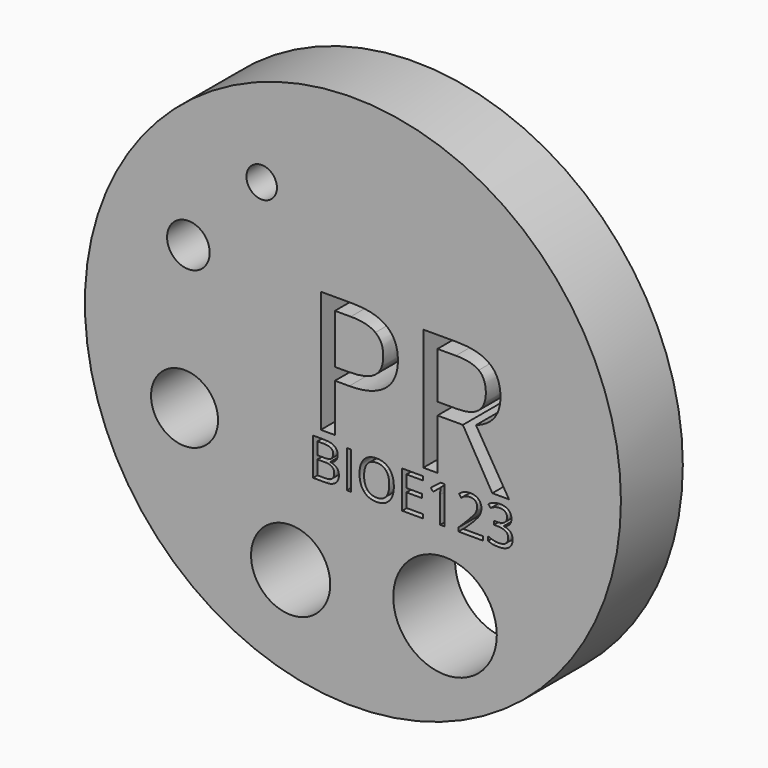
from build123d import *

# Parameters (mm, degrees)
F1_DEPTH = 6.35
F0_R     = 22
F0_R_2   = 3.25
F0_R_3   = 2.75
F0_W     = 0.3557667205
F0_H     = 3.0612017817
F0_R_4   = 4.25
F0_R_5   = 1.75
F0_R_6   = 1.25


with BuildPart() as f1:
    # F0 (on Front) → F1 (new body)
    with BuildSketch(Plane.XZ):
        with BuildLine():
            add(Edge.make_bspline(
                [(1.1828692104, -4.0897023027), (0.917886653, -4.4112993382), (0.917886653, -5.0243436872)],
                knots=[0, 0, 0, 1, 1, 1], degree=2))
            add(Edge.make_bspline(
                [(0.917886653, -5.0243436872), (0.917886653, -5.6460979558), (1.1828692104, -5.9676949913)],
                knots=[0, 0, 0, 1, 1, 1], degree=2))
            add(Edge.make_bspline(
                [(1.1828692104, -5.9676949913), (1.4478517678, -6.2892920268), (1.9523571173, -6.2892920268)],
                knots=[0, 0, 0, 1, 1, 1], degree=2))
            add(Edge.make_bspline(
                [(1.9523571173, -6.2892920268), (2.4608824297, -6.2892920268), (2.7205050365, -5.969034979)],
                knots=[0, 0, 0, 1, 1, 1], degree=2))
            add(Edge.make_bspline(
                [(2.7205050365, -5.969034979), (2.9801276432, -5.6487779311), (2.9801276432, -5.0243436872)],
                knots=[0, 0, 0, 1, 1, 1], degree=2))
            add(Edge.make_bspline(
                [(2.9801276432, -5.0243436872), (2.9801276432, -4.4066093815), (2.7215100272, -4.0873573244)],
                knots=[0, 0, 0, 1, 1, 1], degree=2))
            add(Edge.make_bspline(
                [(2.7215100272, -4.0873573244), (2.4628924111, -3.7681052672), (1.9563770802, -3.7681052672)],
                knots=[0, 0, 0, 1, 1, 1], degree=2))
            add(Edge.make_bspline(
                [(1.9563770802, -3.7681052672), (1.4478517678, -3.7681052672), (1.1828692104, -4.0897023027)],
                knots=[0, 0, 0, 1, 1, 1], degree=2))
        make_face()
    extrude(amount=F1_DEPTH)


with BuildPart() as f1b:
    # F0 (on Front) → F1, piece 2 (new body)
    with BuildSketch(Plane.XZ):
        with BuildLine():
            Line((-2.9178279892, -3.8062949152), (-2.9178279892, -4.8086056759))
            Line((-2.9178279892, -4.8086056759), (-2.3315833932, -4.8086056759))
            add(Edge.make_bspline(
                [(-2.3315833932, -4.8086056759), (-1.9543768703, -4.8086056759), (-1.7888883958, -4.6903517659)],
                knots=[0, 0, 0, 1, 1, 1], degree=2))
            add(Edge.make_bspline(
                [(-1.7888883958, -4.6903517659), (-1.6233999213, -4.572097856), (-1.6233999213, -4.2920404376)],
                knots=[0, 0, 0, 1, 1, 1], degree=2))
            add(Edge.make_bspline(
                [(-1.6233999213, -4.2920404376), (-1.6233999213, -4.0340928153), (-1.8076482229, -3.9201938653)],
                knots=[0, 0, 0, 1, 1, 1], degree=2))
            add(Edge.make_bspline(
                [(-1.8076482229, -3.9201938653), (-1.9918965245, -3.8062949152), (-2.3938928189, -3.8062949152)],
                knots=[0, 0, 0, 1, 1, 1], degree=2))
            Line((-2.3938928189, -3.8062949152), (-2.9178279892, -3.8062949152))
        make_face()
    extrude(amount=F1_DEPTH)


with BuildPart() as f1c:
    # F0 (on Front) → F1, piece 3 (new body)
    with BuildSketch(Plane.XZ):
        with BuildLine():
            Line((-2.3081336094, -5.1101028967), (-2.9178279892, -5.1101028967))
            Line((-2.9178279892, -5.1101028967), (-2.9178279892, -6.2557923357))
            Line((-2.9178279892, -6.2557923357), (-2.2786538811, -6.2557923357))
            add(Edge.make_bspline(
                [(-2.2786538811, -6.2557923357), (-1.9081472965, -6.2557923357), (-1.7208840227, -6.1124136573)],
                knots=[0, 0, 0, 1, 1, 1], degree=2))
            add(Edge.make_bspline(
                [(-1.7208840227, -6.1124136573), (-1.5336207489, -5.969034979), (-1.5336207489, -5.6628478014)],
                knots=[0, 0, 0, 1, 1, 1], degree=2))
            add(Edge.make_bspline(
                [(-1.5336207489, -5.6628478014), (-1.5336207489, -5.3781004262), (-1.7252389825, -5.2441016614)],
                knots=[0, 0, 0, 1, 1, 1], degree=2))
            add(Edge.make_bspline(
                [(-1.7252389825, -5.2441016614), (-1.9168572162, -5.1101028967), (-2.3081336094, -5.1101028967)],
                knots=[0, 0, 0, 1, 1, 1], degree=2))
        make_face()
    extrude(amount=F1_DEPTH)


with BuildPart() as f1d:
    # F0 (on Front) → F1, piece 4 (new body)
    with BuildSketch(Plane.XZ):
        with BuildLine():
            Line((-1.4780142661, 6.0962484466), (-1.4780142661, 2.0411638119))
            Line((-1.4780142661, 2.0411638119), (-0.4314703328, 2.0411638119))
            add(Edge.make_bspline(
                [(-0.4314703328, 2.0411638119), (1.1110349216, 2.0411638119), (1.8003556124, 2.5393099847)],
                knots=[0, 0, 0, 1, 1, 1], degree=2))
            add(Edge.make_bspline(
                [(1.8003556124, 2.5393099847), (2.4896763033, 3.0374561575), (2.4896763033, 4.1386213816)],
                knots=[0, 0, 0, 1, 1, 1], degree=2))
            add(Edge.make_bspline(
                [(2.4896763033, 4.1386213816), (2.4896763033, 5.1283591723), (1.8407753677, 5.6123038095)],
                knots=[0, 0, 0, 1, 1, 1], degree=2))
            add(Edge.make_bspline(
                [(1.8407753677, 5.6123038095), (1.1918744321, 6.0962484466), (-0.1802123948, 6.0962484466)],
                knots=[0, 0, 0, 1, 1, 1], degree=2))
            Line((-0.1802123948, 6.0962484466), (-1.4780142661, 6.0962484466))
        make_face()
    extrude(amount=F1_DEPTH)


with BuildPart() as f1e:
    # F0 (on Front) → F1, piece 5 (new body)
    with BuildSketch(Plane.XZ):
        with BuildLine():
            Line((6.940219084, 6.0831393368), (6.940219084, 2.2662035303))
            Line((6.940219084, 2.2662035303), (8.532975926, 2.2662035303))
            add(Edge.make_bspline(
                [(8.532975926, 2.2662035303), (9.760862545, 2.2662035303), (10.3343860992, 2.7545178707)],
                knots=[0, 0, 0, 1, 1, 1], degree=2))
            add(Edge.make_bspline(
                [(10.3343860992, 2.7545178707), (10.9079096534, 3.2428322112), (10.9079096534, 4.2194608921)],
                knots=[0, 0, 0, 1, 1, 1], degree=2))
            add(Edge.make_bspline(
                [(10.9079096534, 4.2194608921), (10.9079096534, 5.2091986828), (10.3245542668, 5.6461690098)],
                knots=[0, 0, 0, 1, 1, 1], degree=2))
            add(Edge.make_bspline(
                [(10.3245542668, 5.6461690098), (9.7411988803, 6.0831393368), (8.4499515639, 6.0831393368)],
                knots=[0, 0, 0, 1, 1, 1], degree=2))
            Line((8.4499515639, 6.0831393368), (6.940219084, 6.0831393368))
        make_face()
    extrude(amount=F1_DEPTH)


with BuildPart() as f1f:
    # F0 (on Front) → F1, piece 6 (new body)
    with BuildSketch(Plane.XZ):
        Circle(F0_R)
        with Locations((-5.1116850227, -13.8084273785)):
            Circle(F0_R_2, mode=Mode.SUBTRACT)
        with Locations((-13.8228880242, -4.9388385378)):
            Circle(F0_R_3, mode=Mode.SUBTRACT)
        with BuildLine():
            Line((-3.2735947098, -6.5592995379), (-3.2735947098, -3.4980977562))
            Line((-3.2735947098, -3.4980977562), (-2.408632683, -3.4980977562))
            add(Edge.make_bspline(
                [(-2.408632683, -3.4980977562), (-1.799608297, -3.4980977562), (-1.5272558076, -3.6803360763)],
                knots=[0, 0, 0, 1, 1, 1], degree=2))
            add(Edge.make_bspline(
                [(-1.5272558076, -3.6803360763), (-1.2549033181, -3.8625743964), (-1.2549033181, -4.2558607711)],
                knots=[0, 0, 0, 1, 1, 1], degree=2))
            add(Edge.make_bspline(
                [(-1.2549033181, -4.2558607711), (-1.2549033181, -4.5285482574), (-1.4066569192, -4.705426627)],
                knots=[0, 0, 0, 1, 1, 1], degree=2))
            add(Edge.make_bspline(
                [(-1.4066569192, -4.705426627), (-1.5584105204, -4.8823049965), (-1.8498578338, -4.9345645148)],
                knots=[0, 0, 0, 1, 1, 1], degree=2))
            Line((-1.8498578338, -4.9345645148), (-1.8498578338, -4.9553343233))
            add(Edge.make_bspline(
                [(-1.8498578338, -4.9553343233), (-1.152394263, -5.074593224), (-1.152394263, -5.6883075667)],
                knots=[0, 0, 0, 1, 1, 1], degree=2))
            add(Edge.make_bspline(
                [(-1.152394263, -5.6883075667), (-1.152394263, -6.098343787), (-1.4297717062, -6.3288216625)],
                knots=[0, 0, 0, 1, 1, 1], degree=2))
            add(Edge.make_bspline(
                [(-1.4297717062, -6.3288216625), (-1.7071491493, -6.5592995379), (-2.2056245543, -6.5592995379)],
                knots=[0, 0, 0, 1, 1, 1], degree=2))
            Line((-2.2056245543, -6.5592995379), (-3.2735947098, -6.5592995379))
        make_face(mode=Mode.SUBTRACT)
        with Locations((-0.3172469615, -5.028698647)):
            Rectangle(F0_W, F0_H, mode=Mode.SUBTRACT)
        with Locations((7.5591569766, -13.016499579)):
            Circle(F0_R_4, mode=Mode.SUBTRACT)
        with BuildLine():
            add(Edge.make_bspline(
                [(2.9868275815, -3.8686043408), (3.3573341661, -4.2873504808), (3.3573341661, -5.0243436872)],
                knots=[0, 0, 0, 1, 1, 1], degree=2))
            add(Edge.make_bspline(
                [(3.3573341661, -5.0243436872), (3.3573341661, -5.7593269121), (2.9854875938, -6.1804180305)],
                knots=[0, 0, 0, 1, 1, 1], degree=2))
            add(Edge.make_bspline(
                [(2.9854875938, -6.1804180305), (2.6136410215, -6.6015091488), (1.9523571173, -6.6015091488)],
                knots=[0, 0, 0, 1, 1, 1], degree=2))
            add(Edge.make_bspline(
                [(1.9523571173, -6.6015091488), (1.2763333489, -6.6015091488), (0.9088417364, -6.1877879625)],
                knots=[0, 0, 0, 1, 1, 1], degree=2))
            add(Edge.make_bspline(
                [(0.9088417364, -6.1877879625), (0.541350124, -5.7740667762), (0.541350124, -5.0203237242)],
                knots=[0, 0, 0, 1, 1, 1], degree=2))
            add(Edge.make_bspline(
                [(0.541350124, -5.0203237242), (0.541350124, -4.2726106167), (0.9098467272, -3.8612344088)],
                knots=[0, 0, 0, 1, 1, 1], degree=2))
            add(Edge.make_bspline(
                [(0.9098467272, -3.8612344088), (1.2783433303, -3.4498582008), (1.9563770802, -3.4498582008)],
                knots=[0, 0, 0, 1, 1, 1], degree=2))
            add(Edge.make_bspline(
                [(1.9563770802, -3.4498582008), (2.6163209968, -3.4498582008), (2.9868275815, -3.8686043408)],
                knots=[0, 0, 0, 1, 1, 1], degree=2))
        make_face(mode=Mode.SUBTRACT)
        Polygon((5.7458621486, -6.2410524715), (5.7458621486, -6.5592995379), (4.0393878789, -6.5592995379), (4.0393878789, -3.4980977562), (5.7458621486, -3.4980977562), (5.7458621486, -3.8143348411), (4.3951545995, -3.8143348411), (4.3951545995, -4.80056575), (5.6641229021, -4.80056575), (5.6641229021, -5.1147928534), (4.3951545995, -5.1147928534), (4.3951545995, -6.2410524715), align=None, mode=Mode.SUBTRACT)
        with BuildLine():
            Line((7.4999059798, -3.4980977562), (7.4999059798, -6.5592995379))
            Line((7.4999059798, -6.5592995379), (7.1608891049, -6.5592995379))
            Line((7.1608891049, -6.5592995379), (7.1608891049, -4.377799647))
            add(Edge.make_bspline(
                [(7.1608891049, -4.377799647), (7.1608891049, -4.1051121607), (7.1776389505, -3.8625743964)],
                knots=[0, 0, 0, 1, 1, 1], degree=2))
            add(Edge.make_bspline(
                [(7.1776389505, -3.8625743964), (7.1340893519, -3.9067939888), (7.0794848552, -3.9546985472)],
                knots=[0, 0, 0, 1, 1, 1], degree=2))
            add(Edge.make_bspline(
                [(7.0794848552, -3.9546985472), (7.0248803586, -4.0026031056), (6.5813444471, -4.3630597829)],
                knots=[0, 0, 0, 1, 1, 1], degree=2))
            Line((6.5813444471, -4.3630597829), (6.3970961455, -4.1245419816))
            Line((6.3970961455, -4.1245419816), (7.2071186787, -3.4980977562))
            Line((7.2071186787, -3.4980977562), (7.4999059798, -3.4980977562))
        make_face(mode=Mode.SUBTRACT)
        with BuildLine():
            Line((10.6763466993, -6.2370325086), (10.6763466993, -6.5592995379))
            Line((10.6763466993, -6.5592995379), (8.6643552459, -6.5592995379))
            Line((8.6643552459, -6.5592995379), (8.6643552459, -6.2598122986))
            Line((8.6643552459, -6.2598122986), (9.4703578161, -5.4497897654))
            add(Edge.make_bspline(
                [(9.4703578161, -5.4497897654), (9.8388544193, -5.0766032055), (9.9561033385, -4.9174796723)],
                knots=[0, 0, 0, 1, 1, 1], degree=2))
            add(Edge.make_bspline(
                [(9.9561033385, -4.9174796723), (10.0733522577, -4.7583561391), (10.1319767173, -4.6076075287)],
                knots=[0, 0, 0, 1, 1, 1], degree=2))
            add(Edge.make_bspline(
                [(10.1319767173, -4.6076075287), (10.1906011769, -4.4568589183), (10.1906011769, -4.2833305179)],
                knots=[0, 0, 0, 1, 1, 1], degree=2))
            add(Edge.make_bspline(
                [(10.1906011769, -4.2833305179), (10.1906011769, -4.0381127783), (10.041862548, -3.8947341)],
                knots=[0, 0, 0, 1, 1, 1], degree=2))
            add(Edge.make_bspline(
                [(10.041862548, -3.8947341), (9.893123919, -3.7513554216), (9.6291463524, -3.7513554216)],
                knots=[0, 0, 0, 1, 1, 1], degree=2))
            add(Edge.make_bspline(
                [(9.6291463524, -3.7513554216), (9.4388681064, -3.7513554216), (9.2680196813, -3.8143348411)],
                knots=[0, 0, 0, 1, 1, 1], degree=2))
            add(Edge.make_bspline(
                [(9.2680196813, -3.8143348411), (9.0971712561, -3.8773142605), (8.8881331831, -4.0428027351)],
                knots=[0, 0, 0, 1, 1, 1], degree=2))
            Line((8.8881331831, -4.0428027351), (8.7038848815, -3.8062949152))
            add(Edge.make_bspline(
                [(8.7038848815, -3.8062949152), (9.1266509844, -3.4545481576), (9.6251263894, -3.4545481576)],
                knots=[0, 0, 0, 1, 1, 1], degree=2))
            add(Edge.make_bspline(
                [(9.6251263894, -3.4545481576), (10.0566024121, -3.4545481576), (10.3014851547, -3.6753111226)],
                knots=[0, 0, 0, 1, 1, 1], degree=2))
            add(Edge.make_bspline(
                [(10.3014851547, -3.6753111226), (10.5463678974, -3.8960740876), (10.5463678974, -4.2685906537)],
                knots=[0, 0, 0, 1, 1, 1], degree=2))
            add(Edge.make_bspline(
                [(10.5463678974, -4.2685906537), (10.5463678974, -4.5600379672), (10.3828894044, -4.8447853424)],
                knots=[0, 0, 0, 1, 1, 1], degree=2))
            add(Edge.make_bspline(
                [(10.3828894044, -4.8447853424), (10.2194109113, -5.1295327175), (9.7718550369, -5.5650287031)],
                knots=[0, 0, 0, 1, 1, 1], degree=2))
            Line((9.7718550369, -5.5650287031), (9.1018612129, -6.220282663))
            Line((9.1018612129, -6.220282663), (9.1018612129, -6.2370325086))
            Line((9.1018612129, -6.2370325086), (10.6763466993, -6.2370325086))
        make_face(mode=Mode.SUBTRACT)
        with BuildLine():
            add(Edge.make_bspline(
                [(12.7653874424, -3.658561277), (13.0126151635, -3.8625743964), (13.0126151635, -4.2183411169)],
                knots=[0, 0, 0, 1, 1, 1], degree=2))
            add(Edge.make_bspline(
                [(13.0126151635, -4.2183411169), (13.0126151635, -4.5117984118), (12.8481316797, -4.6980566949)],
                knots=[0, 0, 0, 1, 1, 1], degree=2))
            add(Edge.make_bspline(
                [(12.8481316797, -4.6980566949), (12.6836481959, -4.884314978), (12.3821509751, -4.9472943974)],
                knots=[0, 0, 0, 1, 1, 1], degree=2))
            Line((12.3821509751, -4.9472943974), (12.3821509751, -4.964044243))
            add(Edge.make_bspline(
                [(12.3821509751, -4.964044243), (12.7506475783, -5.0096038231), (12.9285309386, -5.1982070845)],
                knots=[0, 0, 0, 1, 1, 1], degree=2))
            add(Edge.make_bspline(
                [(12.9285309386, -5.1982070845), (13.1064142988, -5.386810346), (13.1064142988, -5.6923275297)],
                knots=[0, 0, 0, 1, 1, 1], degree=2))
            add(Edge.make_bspline(
                [(13.1064142988, -5.6923275297), (13.1064142988, -6.1298334967), (12.8029070966, -6.3656713228)],
                knots=[0, 0, 0, 1, 1, 1], degree=2))
            add(Edge.make_bspline(
                [(12.8029070966, -6.3656713228), (12.4993998943, -6.6015091488), (11.9406250451, -6.6015091488)],
                knots=[0, 0, 0, 1, 1, 1], degree=2))
            add(Edge.make_bspline(
                [(11.9406250451, -6.6015091488), (11.697417287, -6.6015091488), (11.4954141491, -6.5646594885)],
                knots=[0, 0, 0, 1, 1, 1], degree=2))
            add(Edge.make_bspline(
                [(11.4954141491, -6.5646594885), (11.2934110111, -6.5278098282), (11.1031327651, -6.4360206743)],
                knots=[0, 0, 0, 1, 1, 1], degree=2))
            Line((11.1031327651, -6.4360206743), (11.1031327651, -6.1050437253))
            add(Edge.make_bspline(
                [(11.1031327651, -6.1050437253), (11.3021209308, -6.2035328174), (11.5272388557, -6.2547873449)],
                knots=[0, 0, 0, 1, 1, 1], degree=2))
            add(Edge.make_bspline(
                [(11.5272388557, -6.2547873449), (11.7523567806, -6.3060418724), (11.9533549278, -6.3060418724)],
                knots=[0, 0, 0, 1, 1, 1], degree=2))
            add(Edge.make_bspline(
                [(11.9533549278, -6.3060418724), (12.7466276153, -6.3060418724), (12.7466276153, -5.6842876038)],
                knots=[0, 0, 0, 1, 1, 1], degree=2))
            add(Edge.make_bspline(
                [(12.7466276153, -5.6842876038), (12.7466276153, -5.1268527423), (11.8716156812, -5.1268527423)],
                knots=[0, 0, 0, 1, 1, 1], degree=2))
            Line((11.8716156812, -5.1268527423), (11.5701184604, -5.1268527423))
            Line((11.5701184604, -5.1268527423), (11.5701184604, -4.8280354968))
            Line((11.5701184604, -4.8280354968), (11.8756356442, -4.8280354968))
            add(Edge.make_bspline(
                [(11.8756356442, -4.8280354968), (12.2334123462, -4.8280354968), (12.4427854162, -4.6699169543)],
                knots=[0, 0, 0, 1, 1, 1], degree=2))
            add(Edge.make_bspline(
                [(12.4427854162, -4.6699169543), (12.6521584862, -4.5117984118), (12.6521584862, -4.2310709996)],
                knots=[0, 0, 0, 1, 1, 1], degree=2))
            add(Edge.make_bspline(
                [(12.6521584862, -4.2310709996), (12.6521584862, -4.0072930624), (12.4983949036, -3.879324242)],
                knots=[0, 0, 0, 1, 1, 1], degree=2))
            add(Edge.make_bspline(
                [(12.4983949036, -3.879324242), (12.344631321, -3.7513554216), (12.0806537543, -3.7513554216)],
                knots=[0, 0, 0, 1, 1, 1], degree=2))
            add(Edge.make_bspline(
                [(12.0806537543, -3.7513554216), (11.8796556071, -3.7513554216), (11.7017722469, -3.8059599183)],
                knots=[0, 0, 0, 1, 1, 1], degree=2))
            add(Edge.make_bspline(
                [(11.7017722469, -3.8059599183), (11.5238888866, -3.8605644149), (11.2954209926, -4.0072930624)],
                knots=[0, 0, 0, 1, 1, 1], degree=2))
            Line((11.2954209926, -4.0072930624), (11.1198826107, -3.772795224))
            add(Edge.make_bspline(
                [(11.1198826107, -3.772795224), (11.3081508753, -3.6240565951), (11.5540386087, -3.5393023763)],
                knots=[0, 0, 0, 1, 1, 1], degree=2))
            add(Edge.make_bspline(
                [(11.5540386087, -3.5393023763), (11.7999263421, -3.4545481576), (12.0726138284, -3.4545481576)],
                knots=[0, 0, 0, 1, 1, 1], degree=2))
            add(Edge.make_bspline(
                [(12.0726138284, -3.4545481576), (12.5181597214, -3.4545481576), (12.7653874424, -3.658561277)],
                knots=[0, 0, 0, 1, 1, 1], degree=2))
        make_face(mode=Mode.SUBTRACT)
        with Locations((-13.5061163455, 6.9400751963)):
            Circle(F0_R_5, mode=Mode.SUBTRACT)
        with Locations((-7.4874670245, 13.4338801727)):
            Circle(F0_R_6, mode=Mode.SUBTRACT)
        with BuildLine():
            add(Edge.make_bspline(
                [(-0.0491212967, 7.1012801988), (3.6913447026, 7.1012801988), (3.6913447026, 4.1932426724)],
                knots=[0, 0, 0, 1, 1, 1], degree=2))
            add(Edge.make_bspline(
                [(3.6913447026, 4.1932426724), (3.6913447026, 2.6769556377), (2.6568174534, 1.860913552)],
                knots=[0, 0, 0, 1, 1, 1], degree=2))
            add(Edge.make_bspline(
                [(2.6568174534, 1.860913552), (1.6222902042, 1.0448714662), (-0.3025640864, 1.0448714662)],
                knots=[0, 0, 0, 1, 1, 1], degree=2))
            Line((-0.3025640864, 1.0448714662), (-1.4780142661, 1.0448714662))
            Line((-1.4780142661, 1.0448714662), (-1.4780142661, -2.8813069221))
            Line((-1.4780142661, -2.8813069221), (-2.6381704843, -2.8813069221))
            Line((-2.6381704843, -2.8813069221), (-2.6381704843, 7.1012801988))
            Line((-2.6381704843, 7.1012801988), (-0.0491212967, 7.1012801988))
        make_face(mode=Mode.SUBTRACT)
        with BuildLine():
            Line((9.0245675439, 1.2699111847), (6.940219084, 1.2699111847))
            Line((6.940219084, 1.2699111847), (6.940219084, -2.8813069221))
            Line((6.940219084, -2.8813069221), (5.7800628658, -2.8813069221))
            Line((5.7800628658, -2.8813069221), (5.7800628658, 7.1012801988))
            Line((5.7800628658, 7.1012801988), (8.5176819646, 7.1012801988))
            add(Edge.make_bspline(
                [(8.5176819646, 7.1012801988), (10.3551421897, 7.1012801988), (11.2323601212, 6.3977579723)],
                knots=[0, 0, 0, 1, 1, 1], degree=2))
            add(Edge.make_bspline(
                [(11.2323601212, 6.3977579723), (12.1095780527, 5.6942357458), (12.1095780527, 4.2806367379)],
                knots=[0, 0, 0, 1, 1, 1], degree=2))
            add(Edge.make_bspline(
                [(12.1095780527, 4.2806367379), (12.1095780527, 2.3011611564), (10.1016994001, 1.6041934848)],
                knots=[0, 0, 0, 1, 1, 1], degree=2))
            Line((10.1016994001, 1.6041934848), (12.8131002792, -2.8813069221))
            Line((12.8131002792, -2.8813069221), (11.4410134524, -2.8813069221))
            Line((11.4410134524, -2.8813069221), (9.0245675439, 1.2699111847))
        make_face(mode=Mode.SUBTRACT)
    extrude(amount=F1_DEPTH)


solid = Compound([f1.part, f1b.part, f1c.part, f1d.part, f1e.part, f1f.part])
